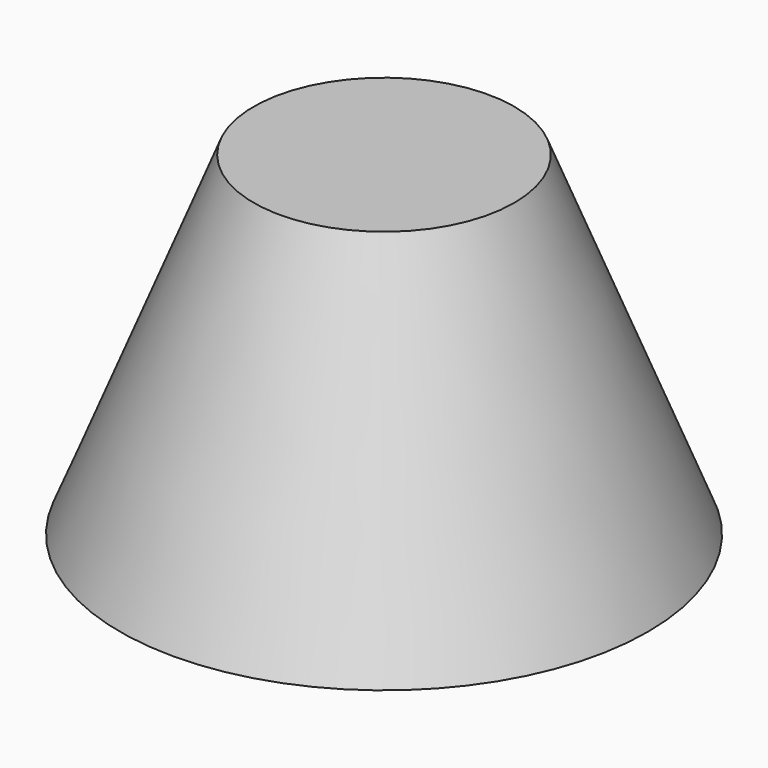
from build123d import *

# Parameters (mm, degrees)
F0_W = 4.953
F0_H = 3.175


with BuildPart() as f1:
    # F0 (on Front) → F1 (revolve)
    with BuildSketch(Plane.XZ):
        Polygon((4.953, 22.225), (4.953, 0), (9.906, 0), (9.906, 25.4), (4.953, 25.4), align=None)
        Polygon((9.906, 25.4), (9.906, 0), (20.066, 0), align=None)
        with Locations((2.4765, 23.8125)):
            Rectangle(F0_W, F0_H)
    revolve(axis=Axis((0, 0, 12.7), (0, 0, -1)))


solid = f1.part
